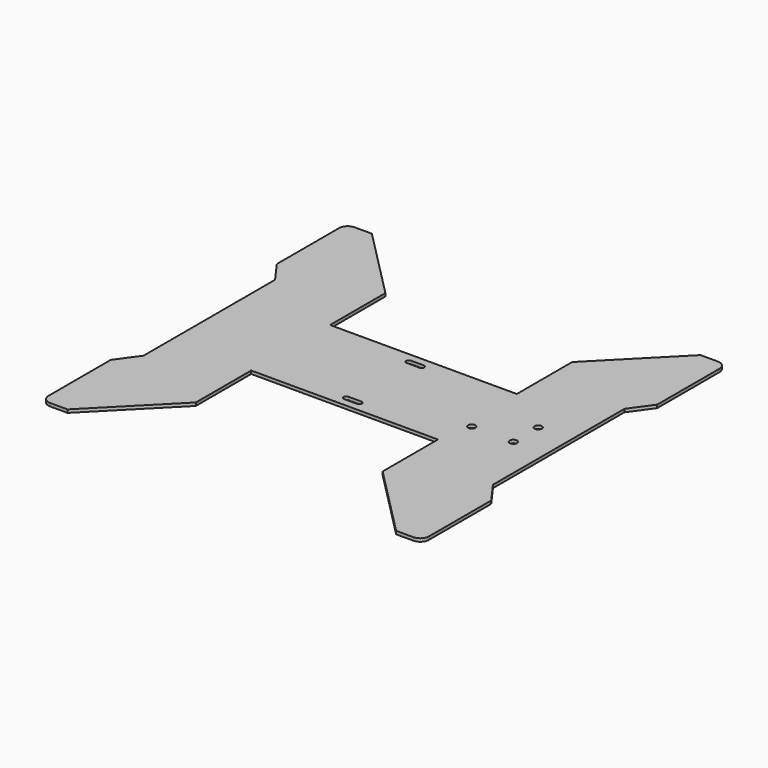
from build123d import *

# Parameters (mm, degrees)
F0_R     = 2.1
F1_DEPTH = 1.8


with BuildPart() as f1:
    # F0 (on Top) → F1 (new body)
    with BuildSketch(Plane.XY):
        with BuildLine():
            Line((54, 68.5), (54, 28.5))
            Line((54, 28.5), (-54, 28.5))
            Line((-54, 28.5), (-54, 68.5))
            Line((-54, 68.5), (-95, 110))
            Line((-95, 110), (-105, 110))
            ThreePointArc((-105, 110), (-108.535534, 108.535534), (-110, 105))
            Line((-110, 105), (-110, 60))
            Line((-110, 60), (-101, 47.5))
            Line((-101, 47.5), (-101, -47.5))
            Line((-101, -47.5), (-110, -60))
            Line((-110, -60), (-110, -105))
            ThreePointArc((-110, -105), (-108.535534, -108.535534), (-105, -110))
            Line((-105, -110), (-95, -110))
            Line((-95, -110), (-54, -68.5))
            Line((-54, -68.5), (-54, -28.5))
            Line((-54, -28.5), (54, -28.5))
            Line((54, -28.5), (54, -68.5))
            Line((54, -68.5), (95, -110))
            Line((95, -110), (105, -110))
            ThreePointArc((105, -110), (108.535534, -108.535534), (110, -105))
            Line((110, -105), (110, -60))
            Line((110, -60), (101, -47.5))
            Line((101, -47.5), (101, 47.5))
            Line((101, 47.5), (110, 60))
            Line((110, 60), (110, 105))
            ThreePointArc((110, 105), (108.535534, 108.535534), (105, 110))
            Line((105, 110), (95, 110))
            Line((95, 110), (54, 68.5))
        make_face()
        with BuildLine():
            Line((-3.75, -21.1), (3.75, -21.1))
            ThreePointArc((3.75, -21.1), (5.25, -22.6), (3.75, -24.1))
            Line((3.75, -24.1), (-3.75, -24.1))
            ThreePointArc((-3.75, -24.1), (-5.25, -22.6), (-3.75, -21.1))
        make_face(mode=Mode.SUBTRACT)
        with Locations((58, -9)):
            Circle(F0_R, mode=Mode.SUBTRACT)
        with Locations((82, -9)):
            Circle(F0_R, mode=Mode.SUBTRACT)
        with BuildLine():
            Line((-3.75, 24.1), (3.75, 24.1))
            ThreePointArc((3.75, 24.1), (5.25, 22.6), (3.75, 21.1))
            Line((3.75, 21.1), (-3.75, 21.1))
            ThreePointArc((-3.75, 21.1), (-5.25, 22.6), (-3.75, 24.1))
        make_face(mode=Mode.SUBTRACT)
        with Locations((82, 9)):
            Circle(F0_R, mode=Mode.SUBTRACT)
    extrude(amount=F1_DEPTH)


solid = f1.part
